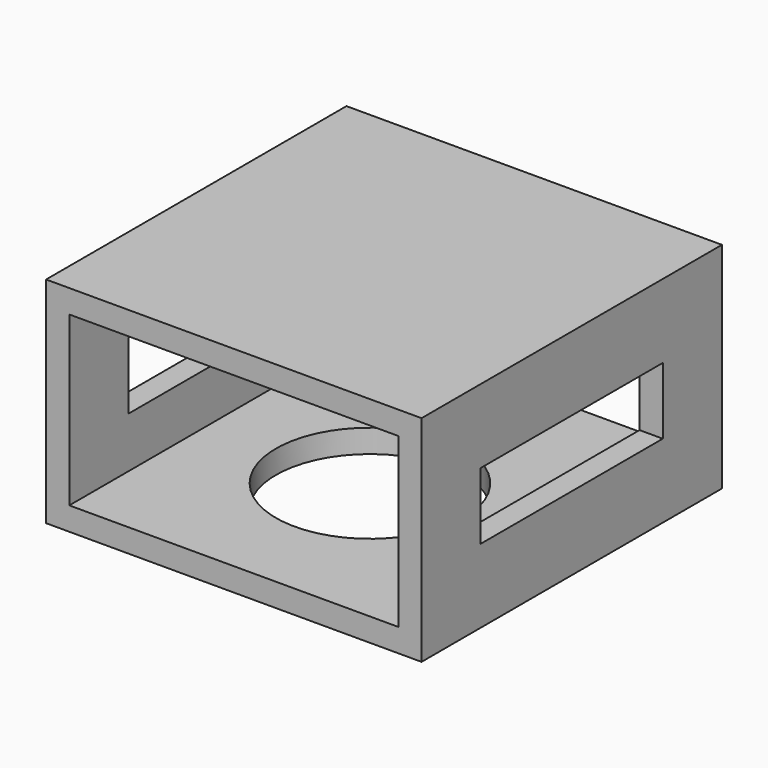
from build123d import *

# Parameters (mm, degrees)
F0_W     = 177.8
F0_H     = 177.8
F1_DEPTH = 101.6
F2_W     = 155.8
F2_H     = 79.6
F3_DEPTH = 177.801
F4_W     = 107.8
F4_H     = 31.6
F5_DEPTH = 177.801
F6_R     = 44.5
F7_DEPTH = 25


with BuildPart() as f1:
    # F0 (on Top) → F1 (new body)
    with BuildSketch(Plane.XY):
        with Locations((-7.112902, 1.270162)):
            Rectangle(F0_W, F0_H)
    extrude(amount=-F1_DEPTH)

    # F2 (on face) → F3 (cut, through all)
    with BuildSketch(Plane.XZ.offset(87.629838)):
        with Locations((-7.112902, -50.8)):
            Rectangle(F2_W, F2_H)
    extrude(amount=-F3_DEPTH, mode=Mode.SUBTRACT)

    # F4 (on face) → F5 (cut, through all)
    with BuildSketch(Plane(origin=(-96.012902, 0, 0), x_dir=(0, -1, 0), z_dir=(-1, 0, 0))):
        with Locations((-1.270162, -50.8)):
            Rectangle(F4_W, F4_H)
    extrude(amount=-F5_DEPTH, mode=Mode.SUBTRACT)

    # F6 (on face) → F7 (cut)
    with BuildSketch(Plane(origin=(0, 0, -101.6), x_dir=(1, 0, 0), z_dir=(0, 0, -1))):
        with Locations((-9.286336, 4.346757)):
            Circle(F6_R)
    extrude(amount=-F7_DEPTH, mode=Mode.SUBTRACT)


solid = f1.part
